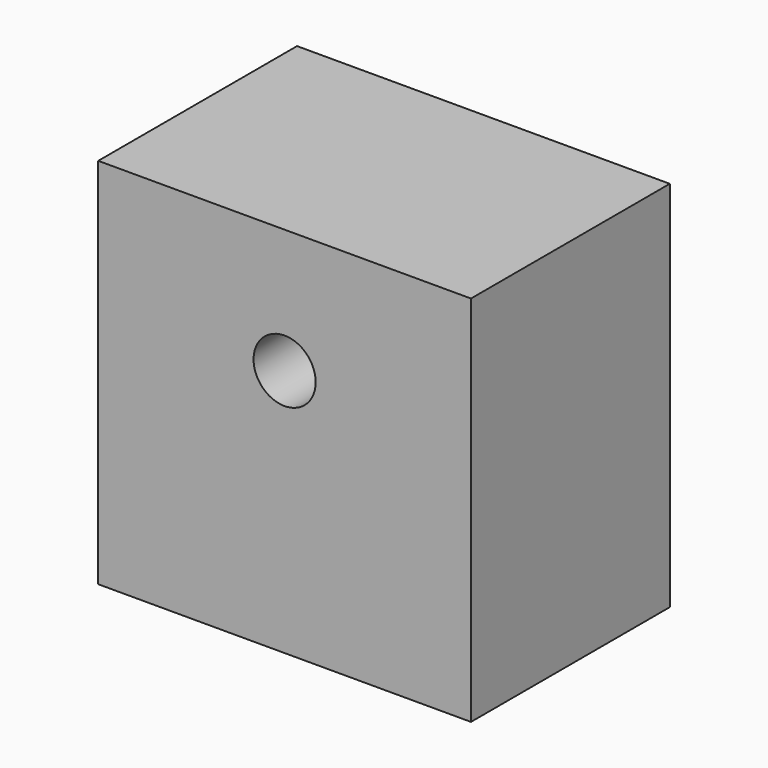
from build123d import *

# Parameters (mm, degrees)
F0_W     = 76.2
F0_H     = 76.2
F1_DEPTH = 25.4
F2_R     = 6.35
F3_DEPTH = 50.801


with BuildPart() as f1:
    # F0 (on Front) → F1 (new body, symmetric)
    with BuildSketch(Plane.XZ):
        Rectangle(F0_W, F0_H)
    extrude(amount=F1_DEPTH, both=True)

    # F2 (on face) → F3 (cut, through all)
    with BuildSketch(Plane.XZ.offset(25.4)):
        with Locations((0, 12.7)):
            Circle(F2_R)
    extrude(amount=-F3_DEPTH, mode=Mode.SUBTRACT)


solid = f1.part
